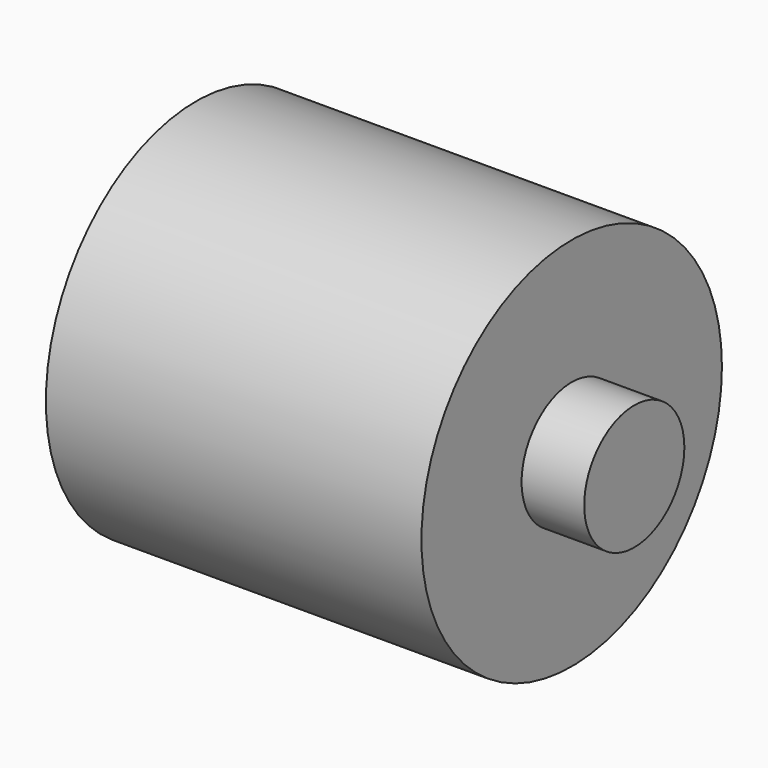
from build123d import *

# Parameters (mm, degrees)
F0_R     = 38.1
F1_DEPTH = 76.2
F2_R     = 12.7
F3_DEPTH = 12.7
F4_R     = 12.7
F5_DEPTH = 12.7


with BuildPart() as f1:
    # F0 (on Right) → F1 (new body)
    with BuildSketch(Plane.YZ):
        Circle(F0_R)
    extrude(amount=F1_DEPTH)

    # F2 (on face) → F3 (join)
    with BuildSketch(Plane(origin=(0, 0, 0), x_dir=(0, -1, 0), z_dir=(-1, 0, 0))):
        Circle(F2_R)
    extrude(amount=F3_DEPTH)

    # F4 (on face) → F5 (join)
    with BuildSketch(Plane.YZ.offset(76.2)):
        Circle(F4_R)
    extrude(amount=F5_DEPTH)


solid = f1.part
